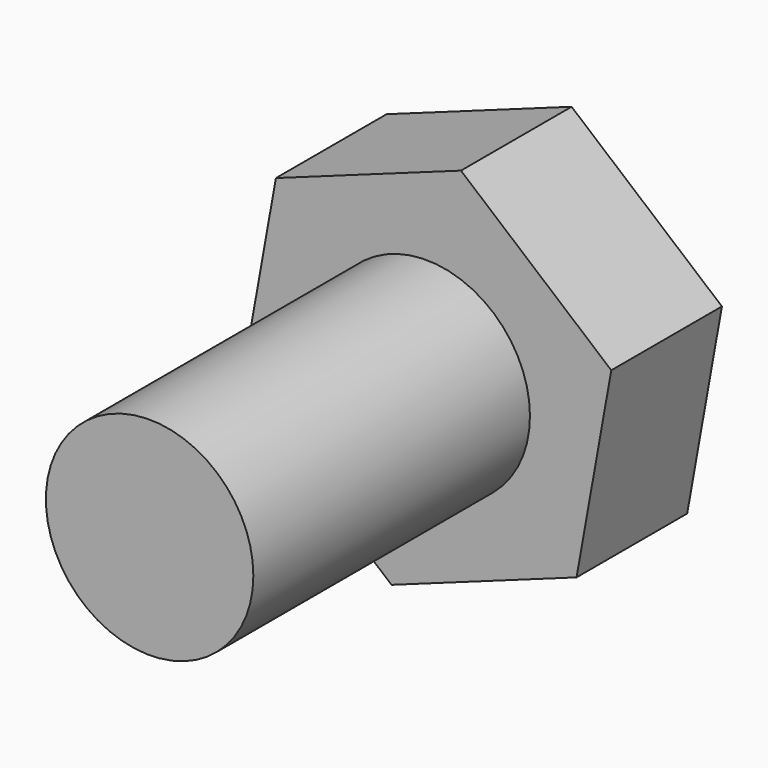
from build123d import *

# Parameters (mm, degrees)
F0_R     = 7.5
F1_DEPTH = 35
F2_DEPTH = 10


with BuildPart() as f1:
    # F0 (on Front) → F1 (new body)
    with BuildSketch(Plane.XZ):
        Circle(F0_R)
    extrude(amount=F1_DEPTH)

    # F0 (on Front) → F2 (join)
    with BuildSketch(Plane.XZ):
        Polygon((13.379767, 4.825564), (2.510822, 14), (-10.868944, 9.174436), (-13.379767, -4.825564), (-2.510822, -14), (10.868944, -9.174436), align=None)
        Circle(F0_R, mode=Mode.SUBTRACT)
    extrude(amount=F2_DEPTH)


solid = f1.part
